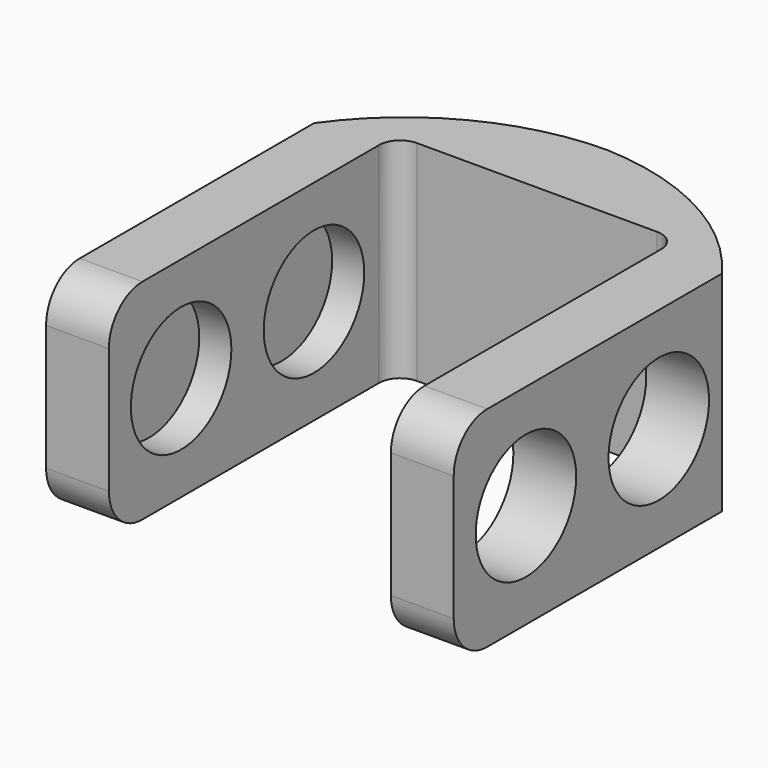
from build123d import *

# Parameters (mm, degrees)
F1_DEPTH = 50
F2_R     = 15
F3_DEPTH = 90
F4_R     = 10
F5_R     = 5


with BuildPart() as f1:
    # F0 (on Top) → F1 (new body)
    with BuildSketch(Plane.XY):
        with BuildLine():
            Line((-53.892129, 40.60475), (-53.892129, -39.39525))
            Line((-53.892129, -39.39525), (-38.892129, -39.39525))
            Line((-38.892129, -39.39525), (-38.892129, 46.271418))
            Line((-38.892129, 46.271418), (28.441196, 46.271418))
            Line((28.441196, 46.271418), (28.441196, -39.39525))
            Line((28.441196, -39.39525), (43.441196, -39.39525))
            Line((43.441196, -39.39525), (43.441196, 40.60475))
            ThreePointArc((43.441196, 40.60475), (22.390443, 58.953554), (-4.5588, 66.271418))
            ThreePointArc((-4.5588, 66.271418), (-32.33335, 59.411682), (-53.892129, 40.60475))
        make_face()
    extrude(amount=F1_DEPTH)

    # F2 (on face) → F3 (cut)
    with BuildSketch(Plane.YZ.offset(43.441196)):
        with Locations((-17.843239, 25)):
            Circle(F2_R)
        with Locations((21.808403, 25)):
            Circle(F2_R)
    extrude(amount=-F3_DEPTH, mode=Mode.SUBTRACT)

    # F4
    f4_edges = [f1.edges().sort_by_distance(p)[0] for p in [
        (-46.392129, -39.39525, 50),
        (-46.392129, -39.39525, 0),
        (35.941196, -39.39525, 50),
        (35.941196, -39.39525, 0),
    ]]
    fillet(f4_edges, radius=F4_R)

    # F5
    f5_edges = [f1.edges().sort_by_distance(p)[0] for p in [
        (28.441196, 46.271418, 25),
        (-38.892129, 46.271418, 25),
    ]]
    fillet(f5_edges, radius=F5_R)


solid = f1.part
